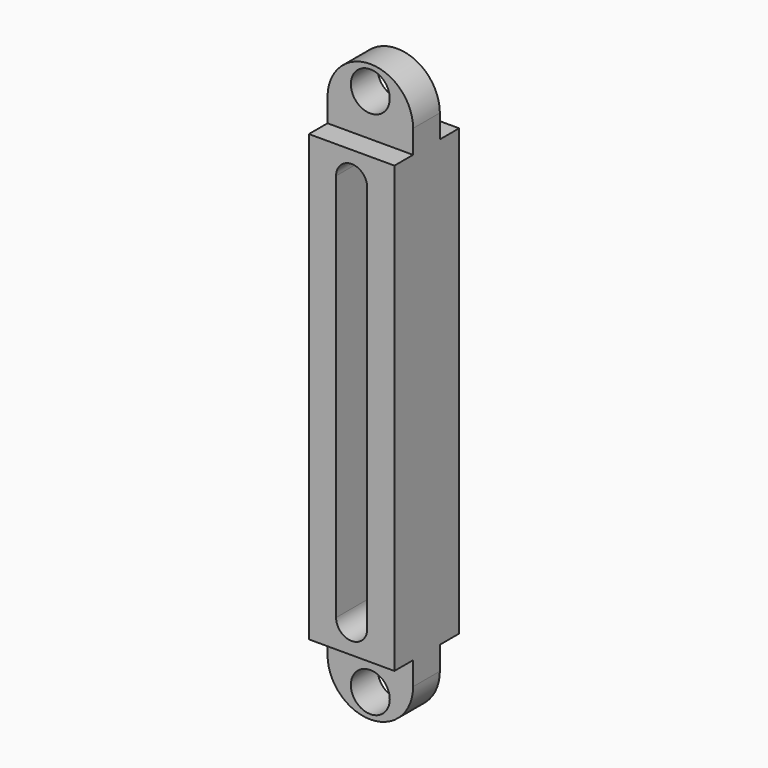
from build123d import *

# Parameters (mm, degrees)
F0_W     = 5.5
F0_H     = 14.3
F1_DEPTH = 5.2
F2_W     = 2
F2_H     = 12.5
F3_DEPTH = 5.5
F5_W     = 5.5
F5_H     = 1.5
F6_DEPTH = 2.15
F7_R     = 1.25
F8_DEPTH = 3


with BuildPart() as f1:
    # F0 (on Front) → F1 (new body)
    with BuildSketch(Plane.XZ):
        with Locations((0, 7.15)):
            Rectangle(F0_W, F0_H)
    extrude(amount=F1_DEPTH)

    # F2 (on face) → F3 (cut)
    with BuildSketch(Plane.XZ.offset(5.2)):
        with Locations((0, 6.25)):
            Rectangle(F2_W, F2_H)
        with BuildLine():
            ThreePointArc((1, 12.5), (0, 13.5), (-1, 12.5))
            Line((-1, 12.5), (1, 12.5))
        make_face()
    extrude(amount=-F3_DEPTH, mode=Mode.SUBTRACT)

    # F5 (on offset) → F6 (join)
    with BuildSketch(Plane.XZ.offset(1.55)):
        with Locations((0, 15.05)):
            Rectangle(F5_W, F5_H)
        with BuildLine():
            ThreePointArc((2.75, 15.8), (0, 18.55), (-2.75, 15.8))
            Line((-2.75, 15.8), (2.75, 15.8))
        make_face()
    extrude(amount=F6_DEPTH)

    # F7 (on face) → F8 (cut)
    with BuildSketch(Plane.XZ.offset(3.7)):
        with Locations((0, 17)):
            Circle(F7_R)
    extrude(amount=-F8_DEPTH, mode=Mode.SUBTRACT)

    # F9: F1 across plane


with BuildPart() as f1_1:
    add(f1.part)
    add(f1.part.mirror(Plane.XY))


solid = f1_1.part
